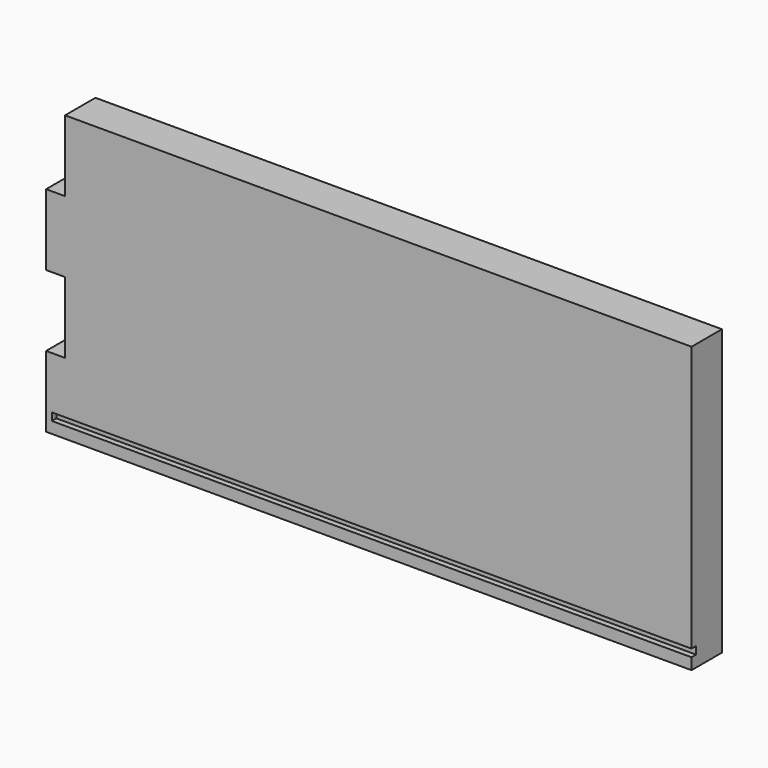
from build123d import *

# Parameters (mm, degrees)
F1_DEPTH = 20
F2_W     = 337
F2_H     = 4
F3_DEPTH = 3


with BuildPart() as f1:
    # F0 (on Front) → F1 (new body)
    with BuildSketch(Plane.XZ):
        Polygon((298.642264, -8.46943), (298.642264, 141.53057), (-31.357736, 141.53057), (-31.357736, 104.03057), (-41.357736, 104.03057), (-41.357736, 66.53057), (-31.357736, 66.53057), (-31.357736, 29.03057), (-41.357736, 29.03057), (-41.357736, -8.46943), align=None)
    extrude(amount=F1_DEPTH)

    # F2 (on face) → F3 (cut)
    with BuildSketch(Plane.XZ.offset(20)):
        with Locations((130.142264, -0.46943)):
            Rectangle(F2_W, F2_H)
    extrude(amount=-F3_DEPTH, mode=Mode.SUBTRACT)


solid = f1.part
